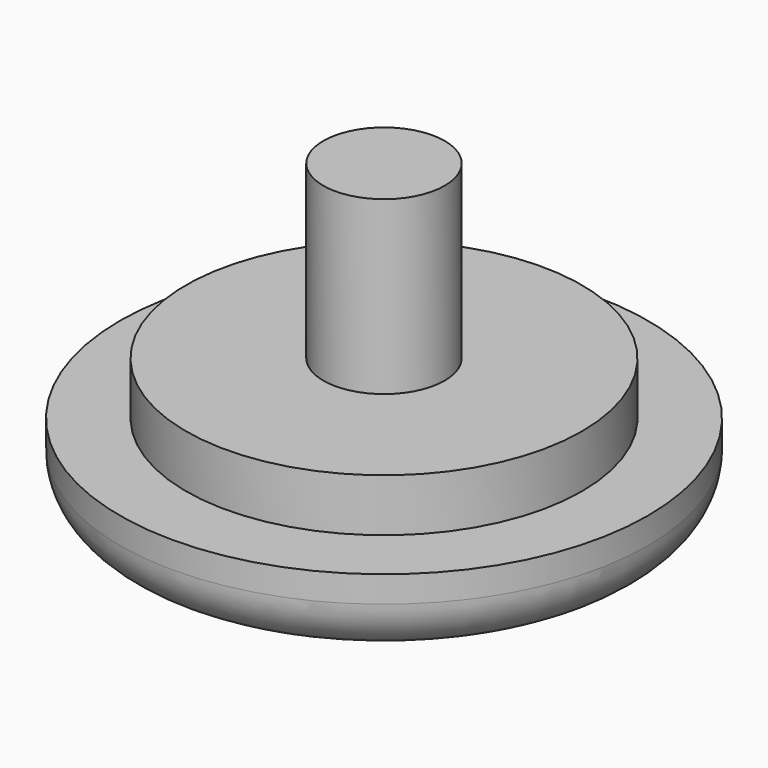
from build123d import *

# Parameters (mm, degrees)
F0_R     = 10
F1_DEPTH = 3
F2_R     = 2
F3_R     = 7.5
F4_DEPTH = 2
F5_R     = 2.3
F6_DEPTH = 6.5


with BuildPart() as f1:
    # F0 (on Top) → F1 (new body)
    with BuildSketch(Plane.XY):
        Circle(F0_R)
    extrude(amount=F1_DEPTH)

    # F2
    f2_edges = [f1.edges().sort_by_distance(p)[0] for p in [
        (-10, 0, 0),
    ]]
    fillet(f2_edges, radius=F2_R)

    # F3 (on face) → F4 (join)
    with BuildSketch(Plane.XY.offset(3)):
        Circle(F3_R)
    extrude(amount=F4_DEPTH)

    # F5 (on face) → F6 (join)
    with BuildSketch(Plane.XY.offset(5)):
        Circle(F5_R)
    extrude(amount=F6_DEPTH)


solid = f1.part
